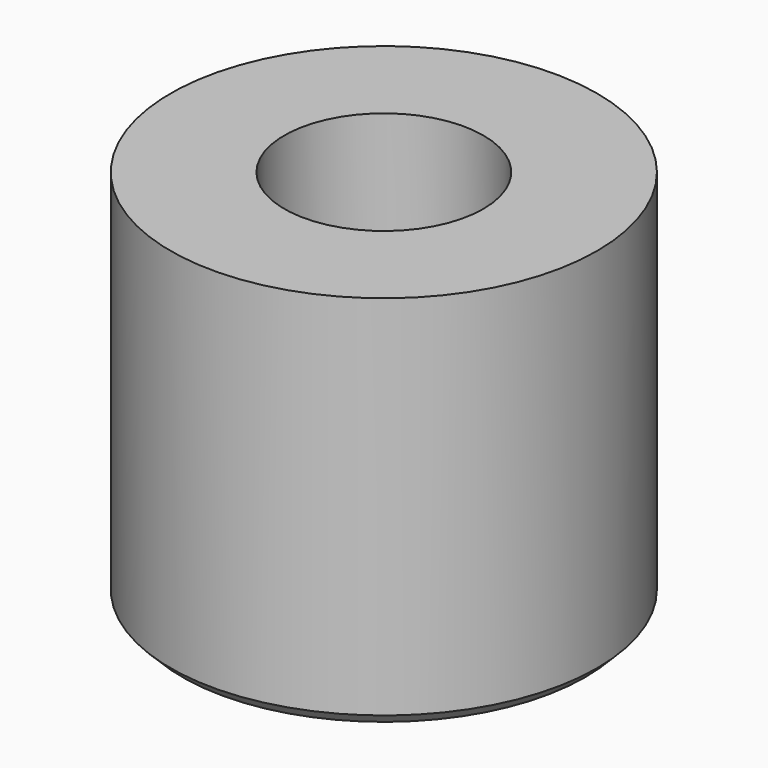
from build123d import *

# Parameters (mm, degrees)
F0_R     = 4.5
F0_R_2   = 2.9
F0_R_3   = 2.1
F1_DEPTH = 8
F2_DEPTH = 8.001
F3_DEPTH = 5
F4_SIZE  = 0.25


with BuildPart() as f1:
    # F0 (on Top) → F1 (new body)
    with BuildSketch(Plane.XY):
        Circle(F0_R)
        Circle(F0_R_2, mode=Mode.SUBTRACT)
        Circle(F0_R_2)
        Circle(F0_R_3, mode=Mode.SUBTRACT)
        Circle(F0_R_3)
    extrude(amount=F1_DEPTH)

    # F0 (on Top) → F2 (cut, through all)
    with BuildSketch(Plane.XY):
        Circle(F0_R_3)
    extrude(amount=F2_DEPTH, mode=Mode.SUBTRACT)

    # F0 (on Top) → F3 (cut)
    with BuildSketch(Plane.XY):
        Circle(F0_R_2)
        Circle(F0_R_3, mode=Mode.SUBTRACT)
    extrude(amount=F3_DEPTH, mode=Mode.SUBTRACT)

    # F4
    f4_edges = [f1.edges().sort_by_distance(p)[0] for p in [
        (-2.1, 0, 5),
        (-2.9, 0, 0),
        (-4.5, 0, 0),
    ]]
    chamfer(f4_edges, length=F4_SIZE)


solid = f1.part
